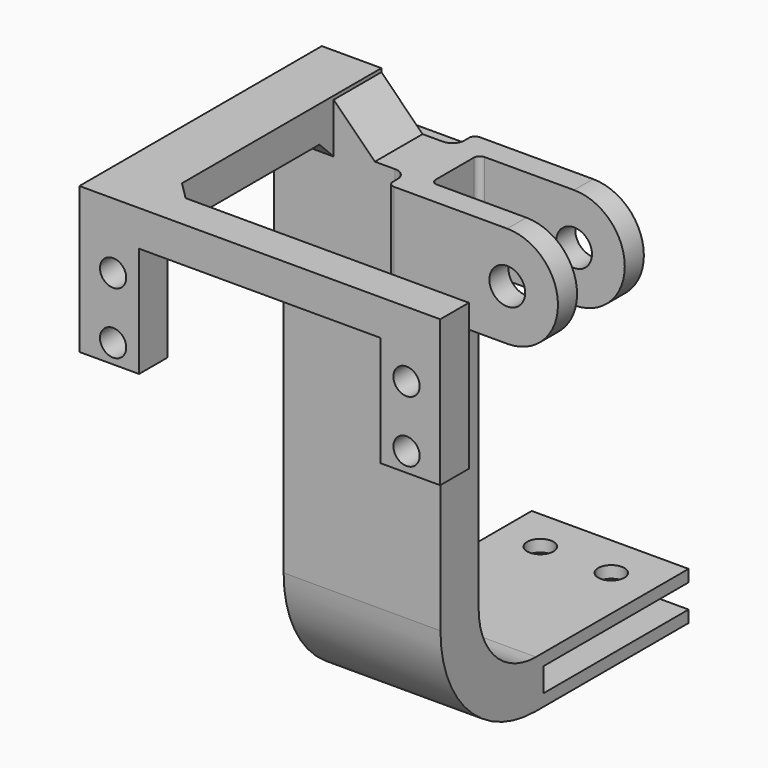
from build123d import *

# Parameters (mm, degrees)
CYLINDER041_R          = 2.2
CYLINDER041_DEPTH      = 26
ARRAY015_X_COUNT       = 2
ARRAY015_X_PITCH       = 11.9
BOX056_W               = 26.3
BOX056_H               = 84
BOX056_DEPTH           = 8
BOX055_W               = 26.3
BOX055_H               = 144.8
BOX055_DEPTH           = 4
PAD070_DEPTH           = 10
PAD071_DEPTH           = 6
BOX054_W               = 80
BOX054_H               = 100
BOX054_DEPTH           = 100
BOX053_W               = 40
BOX053_H               = 84
BOX053_DEPTH           = 10
PAD065_DEPTH           = 10
PAD064_DEPTH           = 10
BOX051_W               = 12
BOX051_H               = 10
BOX051_DEPTH           = 30
CYLINDER039_R          = 2.2
CYLINDER039_DEPTH      = 18
CYLINDER039_ROLL_ANGLE = -90
ARRAY013_X_COUNT       = 2
ARRAY013_X_PITCH       = 49.2
ARRAY013_Z_COUNT       = 2
ARRAY013_Z_PITCH       = 10.3
PAD061_DEPTH           = 6
PAD060_DEPTH           = 10
BOX052_W               = 12
BOX052_H               = 10
BOX052_DEPTH           = 30
CYLINDER040_R          = 2.2
CYLINDER040_DEPTH      = 18
CYLINDER040_ROLL_ANGLE = -90
ARRAY014_X_COUNT       = 2
ARRAY014_X_PITCH       = 49.2
ARRAY014_Z_COUNT       = 2
ARRAY014_Z_PITCH       = 10.3
PAD063_DEPTH           = 6
PAD062_DEPTH           = 10
BOX050_W               = 16.3
BOX050_H               = 10
BOX050_DEPTH           = 17
SKETCH057_R            = 3
PAD058_DEPTH           = 4
SKETCH058_R            = 3
PAD059_DEPTH           = 4
BOX049_W               = 20
BOX049_H               = 17
BOX049_DEPTH           = 10
FILLET021_R            = 1
FILLET021_ROLL_ANGLE   = 90
FILLET022_1_R          = 2
FILLET022_2_R          = 1
BOX046_W               = 16.3
BOX046_H               = 10
BOX046_DEPTH           = 17
SKETCH053_R            = 3
PAD055_DEPTH           = 4
SKETCH054_R            = 3
PAD056_DEPTH           = 4
BOX045_W               = 20
BOX045_H               = 17
BOX045_DEPTH           = 10
FILLET019_R            = 1
FILLET019_ROLL_ANGLE   = 90
FILLET020_1_R          = 2
FILLET020_2_R          = 1
PAD054_DEPTH           = 26.3
CHAMFER008_SIZE        = 1.9
FILLET024_1_R          = 1.5
FILLET024_2_R          = 1
PAD069_DEPTH           = 10


with BuildPart() as taladros_cadera001:
    # Cylinder041 → Cylinder041 (new body)
    with BuildSketch(Plane(origin=(-9.2, -39.8, -80), x_dir=(1, 0, 0), z_dir=(0, 0, 1))):
        Circle(CYLINDER041_R)
    extrude(amount=CYLINDER041_DEPTH)

    # Array015 X: Taladros_cadera001 ×2


with BuildPart() as taladros_cadera001_1:
    add(taladros_cadera001.part)
    with Locations(*[(-i * ARRAY015_X_PITCH, 0, 0) for i in range(1, ARRAY015_X_COUNT)]):
        add(taladros_cadera001.part)


with BuildPart() as cadera_base_centro002:
    # Box056 → Box056 (new body)
    with BuildSketch(Plane(origin=(-28.3, -133, -70), x_dir=(1, 0, 0), z_dir=(0, 0, 1))):
        with Locations((13.15, 42)):
            Rectangle(BOX056_W, BOX056_H)
    extrude(amount=BOX056_DEPTH)


with BuildPart() as cadera_centro001:
    # Box055 → Box055 (new body)
    with BuildSketch(Plane(origin=(-28.3, -163.4, -68), x_dir=(1, 0, 0), z_dir=(0, 0, 1))):
        with Locations((13.15, 72.4)):
            Rectangle(BOX055_W, BOX055_H)
    extrude(amount=BOX055_DEPTH)

    # Fusion009003065: union Cadera_base_centro002
    add(cadera_base_centro002.part)


with BuildPart() as cadera_centro001_1:
    # Fusion009003065 placement: moved
    add(cadera_centro001.part.moved(Location((0, 2, 0))))


with BuildPart() as obj1:
    # Sketch070 → Pad070 (new body)
    with BuildSketch(Plane(origin=(-28.3, 7, 18.5), x_dir=(0, 0, -1), z_dir=(1, 0, 0))):
        Polygon((0, 0), (0, 3), (3, 0), align=None)
    extrude(amount=PAD070_DEPTH)


with BuildPart() as obj2:
    # Sketch071 → Pad071 (new body)
    with BuildSketch(Plane(origin=(-18.3, 41.8, 18.5), x_dir=(0, -1, 0), z_dir=(0, 0, 1))):
        Polygon((0, 0), (0, 3), (3, 0), align=None)
    extrude(amount=PAD071_DEPTH)


with BuildPart() as obj3:
    # Box054 → Box054 (new body)
    with BuildSketch(Plane(origin=(-40, -229, -71), x_dir=(1, 0, 0), z_dir=(0, 0, 1))):
        with Locations((40, 50)):
            Rectangle(BOX054_W, BOX054_H)
    extrude(amount=BOX054_DEPTH)


with BuildPart() as corte_cadera001:
    # Box053 → Box053 (new body)
    with BuildSketch(Plane(origin=(-33, -131, -71), x_dir=(1, 0, 0), z_dir=(0, 0, 1))):
        with Locations((20, 42)):
            Rectangle(BOX053_W, BOX053_H)
    extrude(amount=BOX053_DEPTH)


with BuildPart() as obj4:
    # Sketch064 → Pad065 (new body)
    with BuildSketch(Plane(origin=(-28, -127, 4), x_dir=(1, 0, 0), z_dir=(0, 0, 1))):
        Polygon((0, 0), (0, 6), (26, 6), (26, 0), (23, 0), (23, 3), (3, 3), (3, 0), align=None)
    extrude(amount=PAD065_DEPTH)


with BuildPart() as obj5:
    # Part__Mirroring011: instance of obj4
    add(obj4.part.mirror(Plane(origin=(0, 0, 0), x_dir=(1, 0, 0), z_dir=(0, 1, 0))))


with BuildPart() as obj5_1:
    # Part__Mirroring011 placement: moved
    add(obj5.part.moved(Location((0, -130, 0))))


with BuildPart() as obj6:
    # Sketch063 → Pad064 (new body)
    with BuildSketch(Plane(origin=(-28, -175, 4), x_dir=(1, 0, 0), z_dir=(0, 0, 1))):
        Polygon((0, 0), (0, 6), (26, 6), (26, 0), (23, 0), (23, 3), (3, 3), (3, 0), align=None)
    extrude(amount=PAD064_DEPTH)

    # Fusion009003063: union obj5
    add(obj5_1.part)


with BuildPart() as obj7:
    # Box051 → Box051 (new body)
    with BuildSketch(Plane(origin=(-29.5, -13, 0), x_dir=(1, 0, 0), z_dir=(0, 0, 1))):
        with Locations((6, 5)):
            Rectangle(BOX051_W, BOX051_H)
    extrude(amount=BOX051_DEPTH)


with BuildPart() as obj8:
    # Cylinder039 → Cylinder039 (new body)
    with BuildSketch(Plane.XY):
        Circle(CYLINDER039_R)
    extrude(amount=CYLINDER039_DEPTH)


with BuildPart() as obj8_1:
    # Cylinder039 roll: moved
    add(obj8.part.rotate(Axis((0, 0, 0), (1, 0, 0)), CYLINDER039_ROLL_ANGLE))


with BuildPart() as obj8_2:
    # Cylinder039 placement: moved
    add(obj8_1.part.moved(Location((150.075, 41, 13.5))))

    # Array013 X: obj8_2


with BuildPart() as obj8_3:
    add(obj8_2.part)
    with Locations(*[(i * ARRAY013_X_PITCH, 0, 0) for i in range(1, ARRAY013_X_COUNT)]):
        add(obj8_2.part)

    # Array013 Z: obj8_2


with BuildPart() as obj8_4:
    add(obj8_3.part)
    with Locations(*[(0, 0, -i * ARRAY013_Z_PITCH) for i in range(1, ARRAY013_Z_COUNT)]):
        add(obj8_3.part)


with BuildPart() as obj9:
    # Sketch060 → Pad061 (new body)
    with BuildSketch(Plane(origin=(10, 54.8, 0), x_dir=(1, 0, 0), z_dir=(0, -1, 0))):
        Polygon((0, 18.5), (0, 24.5), (50.5, 24.5), (50.5, 0), (40.5, 0), (40.5, 18.5), align=None)
    extrude(amount=PAD061_DEPTH)


with BuildPart() as obj10:
    # Sketch059 → Pad060 (new body)
    with BuildSketch(Plane.YZ):
        Polygon((14, 0), (0, 0), (0, 24.5), (54.8, 24.5), (54.8, 0), (48.8, 0), (48.8, 18.5), (14, 18.5), align=None)
    extrude(amount=PAD060_DEPTH)

    # Fusion009003060: union obj9
    add(obj9.part)


with BuildPart() as obj10_1:
    # Fusion009003060 placement: moved
    add(obj10.part.moved(Location((144.425, -3, 0))))

    # Cut041: cut obj8
    add(obj8_4.part, mode=Mode.SUBTRACT)


with BuildPart() as obj10_2:
    # Cut041 placement: moved
    add(obj10_1.part.moved(Location((-172.725, -4, 0))))

    # Cut042: cut obj7
    add(obj7.part, mode=Mode.SUBTRACT)


with BuildPart() as obj11:
    # Box052 → Box052 (new body)
    with BuildSketch(Plane(origin=(-29.5, -13, 0), x_dir=(1, 0, 0), z_dir=(0, 0, 1))):
        with Locations((6, 5)):
            Rectangle(BOX052_W, BOX052_H)
    extrude(amount=BOX052_DEPTH)


with BuildPart() as obj12:
    # Cylinder040 → Cylinder040 (new body)
    with BuildSketch(Plane.XY):
        Circle(CYLINDER040_R)
    extrude(amount=CYLINDER040_DEPTH)


with BuildPart() as obj12_1:
    # Cylinder040 roll: moved
    add(obj12.part.rotate(Axis((0, 0, 0), (1, 0, 0)), CYLINDER040_ROLL_ANGLE))


with BuildPart() as obj12_2:
    # Cylinder040 placement: moved
    add(obj12_1.part.moved(Location((150.075, 41, 13.5))))

    # Array014 X: obj12_2


with BuildPart() as obj12_3:
    add(obj12_2.part)
    with Locations(*[(i * ARRAY014_X_PITCH, 0, 0) for i in range(1, ARRAY014_X_COUNT)]):
        add(obj12_2.part)

    # Array014 Z: obj12_2


with BuildPart() as obj12_4:
    add(obj12_3.part)
    with Locations(*[(0, 0, -i * ARRAY014_Z_PITCH) for i in range(1, ARRAY014_Z_COUNT)]):
        add(obj12_3.part)


with BuildPart() as obj13:
    # Sketch062 → Pad063 (new body)
    with BuildSketch(Plane(origin=(10, 54.8, 0), x_dir=(1, 0, 0), z_dir=(0, -1, 0))):
        Polygon((0, 18.5), (0, 24.5), (50.5, 24.5), (50.5, 0), (40.5, 0), (40.5, 18.5), align=None)
    extrude(amount=PAD063_DEPTH)


with BuildPart() as obj14:
    # Sketch061 → Pad062 (new body)
    with BuildSketch(Plane.YZ):
        Polygon((14, 0), (0, 0), (0, 24.5), (54.8, 24.5), (54.8, 0), (48.8, 0), (48.8, 18.5), (14, 18.5), align=None)
    extrude(amount=PAD062_DEPTH)

    # Fusion009003061: union obj13
    add(obj13.part)


with BuildPart() as obj14_1:
    # Fusion009003061 placement: moved
    add(obj14.part.moved(Location((144.425, -3, 0))))

    # Cut043: cut obj12
    add(obj12_4.part, mode=Mode.SUBTRACT)


with BuildPart() as obj14_2:
    # Cut043 placement: moved
    add(obj14_1.part.moved(Location((-172.725, -4, 0))))

    # Cut044: cut obj11
    add(obj11.part, mode=Mode.SUBTRACT)


with BuildPart() as obj15:
    # Part__Mirroring010: instance of obj14
    add(obj14_2.part.mirror(Plane(origin=(0, 0, 0), x_dir=(1, 0, 0), z_dir=(0, 1, 0))))


with BuildPart() as obj15_1:
    # Part__Mirroring010 placement: moved
    add(obj15.part.moved(Location((0, -178, 0))))


with BuildPart() as obj16:
    # Box050 → Box050 (new body)
    with BuildSketch(Plane(origin=(-26.3, -8, 0), x_dir=(1, 0, 0), z_dir=(0, 0, 1))):
        with Locations((8.15, 5)):
            Rectangle(BOX050_W, BOX050_H)
    extrude(amount=BOX050_DEPTH)


with BuildPart() as obj17:
    # Sketch057 → Pad058 (new body)
    with BuildSketch(Plane.XY):
        with BuildLine():
            Line((0, 17), (20, 17))
            ThreePointArc((20, 0), (28.500019, 8.5), (20, 17))
            Line((20, 0), (0, 0))
            Line((0, 0), (0, 17))
        make_face()
        with Locations((20.000019, 8.5)):
            Circle(SKETCH057_R, mode=Mode.SUBTRACT)
    extrude(amount=PAD058_DEPTH)


with BuildPart() as obj18:
    # Sketch058 → Pad059 (new body)
    with BuildSketch(Plane.XY.offset(14)):
        with BuildLine():
            Line((0, 17), (20, 17))
            ThreePointArc((20, 0), (28.500019, 8.5), (20, 17))
            Line((20, 0), (0, 0))
            Line((0, 0), (0, 17))
        make_face()
        with Locations((20.000019, 8.5)):
            Circle(SKETCH058_R, mode=Mode.SUBTRACT)
    extrude(amount=PAD059_DEPTH)


with BuildPart() as obj19:
    # Box049 → Box049 (new body)
    with BuildSketch(Plane(origin=(-16, 0, 4), x_dir=(1, 0, 0), z_dir=(0, 0, 1))):
        with Locations((10, 8.5)):
            Rectangle(BOX049_W, BOX049_H)
    extrude(amount=BOX049_DEPTH)

    # Fusion009003056: union obj17, obj18
    add(obj17.part)
    add(obj18.part)

    # Fillet021
    fillet021_edges = [obj19.edges().sort_by_distance(p)[0] for p in [
        (0, 8.5, 18),
        (-16, 0, 9),
        (-16, 17, 9),
        (0, 8.5, 0),
    ]]
    fillet(fillet021_edges, radius=FILLET021_R)


with BuildPart() as obj19_1:
    # Fillet021 roll: moved
    add(obj19.part.rotate(Axis((0, 0, 0), (1, 0, 0)), FILLET021_ROLL_ANGLE))


with BuildPart() as obj19_2:
    # Fillet021 placement: moved
    add(obj19_1.part.moved(Location((16, 15, 0))))

    # Fillet022 1
    fillet022_1_edges = [obj19_2.edges().sort_by_distance(p)[0] for p in [
        (16, 1, 8.5),
        (16, 11, 8.5),
    ]]
    fillet(fillet022_1_edges, radius=FILLET022_1_R)

    # Fillet022 2
    fillet022_2_edges = [obj19_2.edges().sort_by_distance(p)[0] for p in [
        (20, 1, 8.5),
        (20, 11, 8.5),
    ]]
    fillet(fillet022_2_edges, radius=FILLET022_2_R)


with BuildPart() as obj19_3:
    # Fillet022 placement: moved
    add(obj19_2.part.moved(Location((-20, -9, 0))))

    # Fusion009003057: union obj16
    add(obj16.part)


with BuildPart() as obj19_4:
    # Fusion009003057 placement: moved
    add(obj19_3.part.moved(Location((0, -182, 0))))


with BuildPart() as obj20:
    # Box046 → Box046 (new body)
    with BuildSketch(Plane(origin=(-26.3, -8, 0), x_dir=(1, 0, 0), z_dir=(0, 0, 1))):
        with Locations((8.15, 5)):
            Rectangle(BOX046_W, BOX046_H)
    extrude(amount=BOX046_DEPTH)


with BuildPart() as obj21:
    # Sketch053 → Pad055 (new body)
    with BuildSketch(Plane.XY):
        with BuildLine():
            Line((0, 17), (20, 17))
            ThreePointArc((20, 0), (28.500019, 8.5), (20, 17))
            Line((20, 0), (0, 0))
            Line((0, 0), (0, 17))
        make_face()
        with Locations((20.000019, 8.5)):
            Circle(SKETCH053_R, mode=Mode.SUBTRACT)
    extrude(amount=PAD055_DEPTH)


with BuildPart() as obj22:
    # Sketch054 → Pad056 (new body)
    with BuildSketch(Plane.XY.offset(14)):
        with BuildLine():
            Line((0, 17), (20, 17))
            ThreePointArc((20, 0), (28.500019, 8.5), (20, 17))
            Line((20, 0), (0, 0))
            Line((0, 0), (0, 17))
        make_face()
        with Locations((20.000019, 8.5)):
            Circle(SKETCH054_R, mode=Mode.SUBTRACT)
    extrude(amount=PAD056_DEPTH)


with BuildPart() as obj23:
    # Box045 → Box045 (new body)
    with BuildSketch(Plane(origin=(-16, 0, 4), x_dir=(1, 0, 0), z_dir=(0, 0, 1))):
        with Locations((10, 8.5)):
            Rectangle(BOX045_W, BOX045_H)
    extrude(amount=BOX045_DEPTH)

    # Fusion009003052: union obj21, obj22
    add(obj21.part)
    add(obj22.part)

    # Fillet019
    fillet019_edges = [obj23.edges().sort_by_distance(p)[0] for p in [
        (0, 8.5, 18),
        (-16, 0, 9),
        (-16, 17, 9),
        (0, 8.5, 0),
    ]]
    fillet(fillet019_edges, radius=FILLET019_R)


with BuildPart() as obj23_1:
    # Fillet019 roll: moved
    add(obj23.part.rotate(Axis((0, 0, 0), (1, 0, 0)), FILLET019_ROLL_ANGLE))


with BuildPart() as obj23_2:
    # Fillet019 placement: moved
    add(obj23_1.part.moved(Location((16, 15, 0))))

    # Fillet020 1
    fillet020_1_edges = [obj23_2.edges().sort_by_distance(p)[0] for p in [
        (16, 1, 8.5),
        (16, 11, 8.5),
    ]]
    fillet(fillet020_1_edges, radius=FILLET020_1_R)

    # Fillet020 2
    fillet020_2_edges = [obj23_2.edges().sort_by_distance(p)[0] for p in [
        (20, 1, 8.5),
        (20, 11, 8.5),
    ]]
    fillet(fillet020_2_edges, radius=FILLET020_2_R)


with BuildPart() as obj23_3:
    # Fillet020 placement: moved
    add(obj23_2.part.moved(Location((-20, -9, 0))))

    # Fusion009003055: union obj20
    add(obj20.part)

    # Fusion009003058: union obj19
    add(obj19_4.part)


with BuildPart() as obj24:
    # Sketch055 → Pad054 (new body)
    with BuildSketch(Plane(origin=(0, 0, 0), x_dir=(0, 1, 0), z_dir=(-1, 0, 0))):
        with BuildLine():
            Line((-188, 0), (-188, 50))
            ThreePointArc((-168, 70), (-182.142136, 64.142136), (-188, 50))
            Line((-168, 70), (-20, 70))
            ThreePointArc((0, 50), (-5.857864, 64.142136), (-20, 70))
            Line((0, 50), (0, 0))
            Line((0, 0), (-8, 0))
            Line((-8, 0), (-8, 50))
            ThreePointArc((-8, 50), (-11.514719, 58.485281), (-20, 62))
            Line((-20, 62), (-168, 62))
            ThreePointArc((-168, 62), (-176.485281, 58.485281), (-180, 50))
            Line((-180, 50), (-180, 0))
            Line((-180, 0), (-188, 0))
        make_face()
    extrude(amount=PAD054_DEPTH)

    # Fusion009003059: union obj23
    add(obj23_3.part)


with BuildPart() as obj24_1:
    # Fusion009003059 placement: moved
    add(obj24.part.moved(Location((-2, 5, 0))))

    # Fusion009003062: union obj10, obj15
    add(obj10_2.part)
    add(obj15_1.part)

    # Fusion009003064: union obj6
    add(obj6.part)

    # Chamfer008
    chamfer008_edges = [obj24_1.edges().sort_by_distance(p)[0] for p in [
        (-2, -7, 9),
        (-26.5, -3, 14),
        (-26.5, -3, 4),
        (-26.5, -175, 14),
        (-26.5, -175, 4),
        (-2, -171, 9),
    ]]
    chamfer(chamfer008_edges, length=CHAMFER008_SIZE)

    # Fillet024 1
    fillet024_1_edges = [obj24_1.edges().sort_by_distance(p)[0] for p in [
        (-18.3, 2, 17),
        (-18.3, -180, 17),
    ]]
    fillet(fillet024_1_edges, radius=FILLET024_1_R)

    # Fillet024 2
    fillet024_2_edges = [obj24_1.edges().sort_by_distance(p)[0] for p in [
        (-15.15, 5, 0),
        (-15.15, -183, 0),
    ]]
    fillet(fillet024_2_edges, radius=FILLET024_2_R)

    # Cut045: cut Corte_cadera001
    add(corte_cadera001.part, mode=Mode.SUBTRACT)

    # Cut046: cut obj3
    add(obj3.part, mode=Mode.SUBTRACT)


with BuildPart() as cadera_izquierda_full001:
    # Sketch069 → Pad069 (new body)
    with BuildSketch(Plane(origin=(-18.4, 7, 17), x_dir=(1, 0, 0), z_dir=(0, -1, 0))):
        Polygon((0, 0), (0, 7), (7, 0), align=None)
    extrude(amount=PAD069_DEPTH)

    # Fusion009003067: union obj1, obj2, obj24
    add(obj1.part)
    add(obj2.part)
    add(obj24_1.part)

    # Cut047: cut Cadera_centro001
    add(cadera_centro001_1.part, mode=Mode.SUBTRACT)

    # Cut048: cut Taladros_cadera001
    add(taladros_cadera001_1.part, mode=Mode.SUBTRACT)


with BuildPart() as cadera_derecha_full:
    # Part__Mirroring013: instance of Cadera_izquierda_full001
    add(cadera_izquierda_full001.part.mirror(Plane(origin=(0, 0, 0), x_dir=(1, 0, 0), z_dir=(0, 1, 0))))


with BuildPart() as cadera_derecha_full_1:
    # Part__Mirroring013 placement: moved
    add(cadera_derecha_full.part.moved(Location((0, -178, 0))))


solid = cadera_derecha_full_1.part
